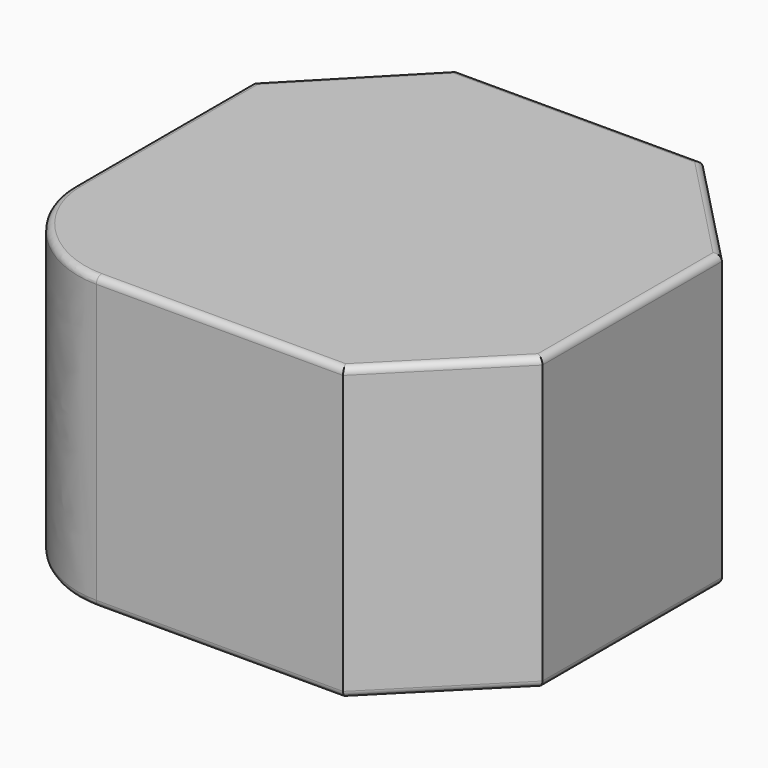
from build123d import *

# Parameters (mm, degrees)
PAD_DEPTH   = 6.5
FILLET_R    = 0.15
FILLET001_R = 0.15


with BuildPart() as part:
    # Sketch → Pad (new body)
    with BuildSketch(Plane.XY):
        with BuildLine():
            Line((-5.22543, -2.53984), (-5.22543, 2.46016))
            Line((-5.22543, 2.46016), (-2.73961, 5.013846))
            Line((-2.73961, 5.013846), (2.76039, 5.013846))
            Line((2.76039, 5.013846), (5.22543, 2.46016))
            Line((5.22543, 2.46016), (5.22543, -2.53984))
            Line((5.22543, -2.53984), (2.76039, -5.013846))
            Line((2.76039, -5.013846), (-2.73961, -5.013846))
            add(Edge.make_bspline(
                [(-2.73961, -5.013846), (-3.98961, -5.013846), (-5.22543, -3.78984), (-5.22543, -2.53984)],
                knots=[0, 0, 0, 0, 1, 1, 1, 1], degree=3))
        make_face()
    extrude(amount=PAD_DEPTH)

    # Fillet
    fillet_edges = [part.edges().sort_by_distance(p)[0] for p in [
        (-5.22543, -0.03984, 6.5),
        (-3.98252, 3.737003, 6.5),
        (0.01039, 5.013846, 6.5),
        (3.99291, 3.737003, 6.5),
        (5.22543, -0.03984, 6.5),
        (3.99291, -3.776843, 6.5),
        (0.01039, -5.013846, 6.5),
        (-4.450502, -4.246356, 6.5),
    ]]
    fillet(fillet_edges, radius=FILLET_R)

    # Fillet001
    fillet001_edges = [part.edges().sort_by_distance(p)[0] for p in [
        (-5.22543, -0.03984, 0),
        (-3.98252, 3.737003, 0),
        (0.01039, 5.013846, 0),
        (3.99291, 3.737003, 0),
        (5.22543, -0.03984, 0),
        (3.99291, -3.776843, 0),
        (0.01039, -5.013846, 0),
        (-4.450502, -4.246356, 0),
    ]]
    fillet(fillet001_edges, radius=FILLET001_R)


solid = part.part
